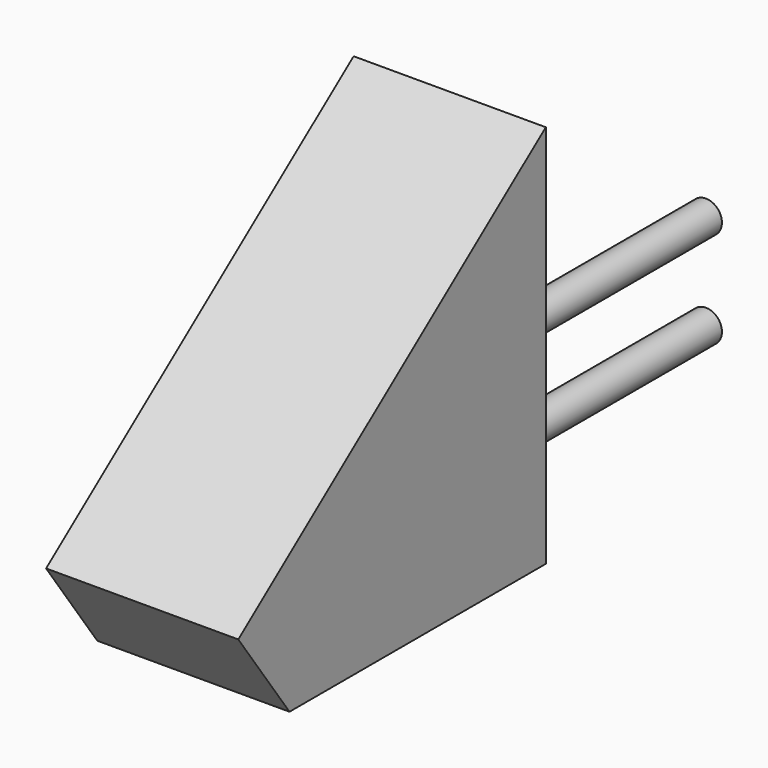
from build123d import *

# Parameters (mm, degrees)
F1_DEPTH = 7.62
F2_R     = 0.635
F3_DEPTH = 12.7


with BuildPart() as f1:
    # F0 (on Right) → F1 (new body)
    with BuildSketch(Plane.YZ):
        Polygon((-51.117983, 16.47564), (-48.577983, 12.917599), (-35.877983, 12.917599), (-35.877983, 28.157599), align=None)
    extrude(amount=F1_DEPTH)

    # F2 (on face) → F3 (join)
    with BuildSketch(Plane(origin=(0, -35.877983, 0), x_dir=(-1, 0, 0), z_dir=(0, 1, 0))):
        with Locations((-3.81, 18.632599)):
            Circle(F2_R)
        with Locations((-3.81, 14.822599)):
            Circle(F2_R)
    extrude(amount=F3_DEPTH)


solid = f1.part
